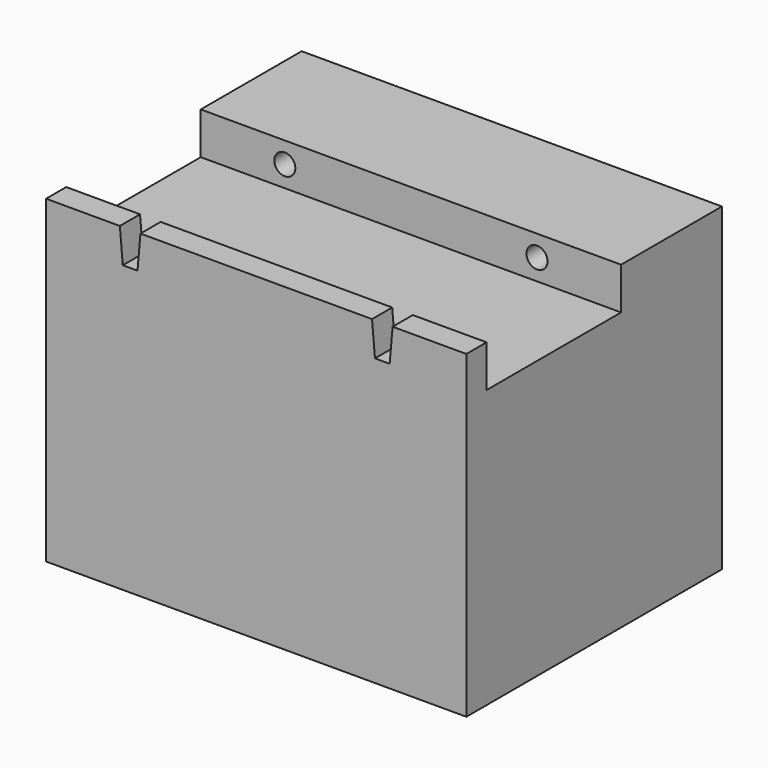
from build123d import *

# Parameters (mm, degrees)
F0_W     = 50
F0_H     = 38
F1_DEPTH = 38
F2_W     = 50
F2_H     = 20
F3_DEPTH = 5
F4_R     = 1.25
F5_DEPTH = 25
F7_DEPTH = 5


with BuildPart() as f1:
    # F0 (on Top) → F1 (new body)
    with BuildSketch(Plane.XY):
        with Locations((25, -19)):
            Rectangle(F0_W, F0_H)
    extrude(amount=F1_DEPTH)

    # F2 (on face) → F3 (cut)
    with BuildSketch(Plane.XY.offset(38)):
        with Locations((25, -25)):
            Rectangle(F2_W, F2_H)
    extrude(amount=-F3_DEPTH, mode=Mode.SUBTRACT)

    # F4 (on face) → F5 (cut)
    with BuildSketch(Plane.XZ.offset(15)):
        with Locations((10, 35.5)):
            Circle(F4_R)
        with Locations((40, 35.5)):
            Circle(F4_R)
    extrude(amount=-F5_DEPTH, mode=Mode.SUBTRACT)

    # F6 (on face) → F7 (cut)
    with BuildSketch(Plane.XZ.offset(38)):
        Polygon((11.224955, 38), (8.775045, 38), (9.125, 34), (10.875, 34), align=None)
        Polygon((41.224955, 38), (38.775045, 38), (39.125, 34), (40.875, 34), align=None)
    extrude(amount=-F7_DEPTH, mode=Mode.SUBTRACT)


solid = f1.part
